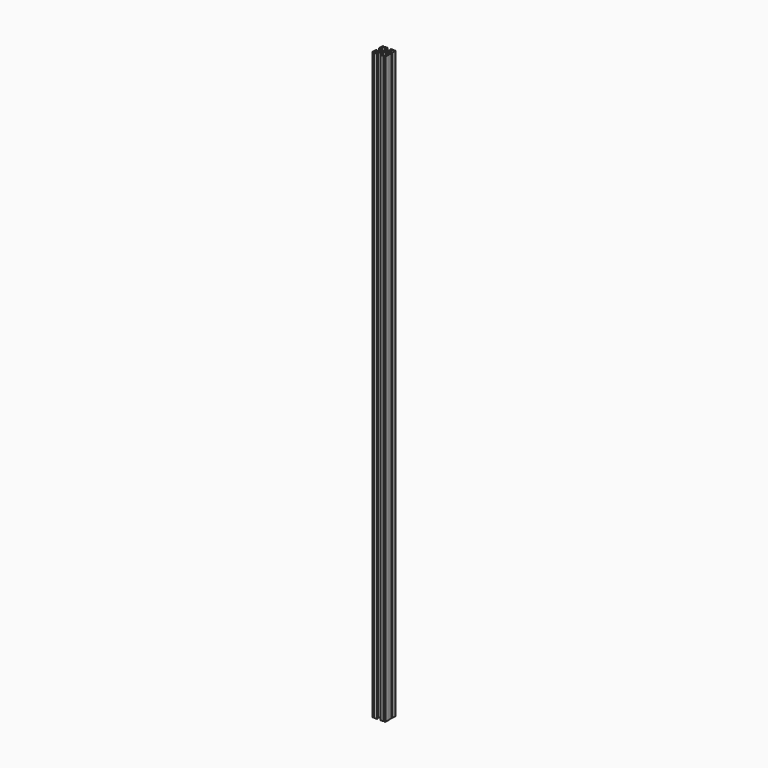
from build123d import *

# Parameters (mm, degrees)
F0_W     = 2.1
F0_H     = 10
F1_DEPTH = 1800
F2_R     = 5
F3_DEPTH = 1800


with BuildPart() as f1:
    # F0 (on Top) → F1 (new body)
    with BuildSketch(Plane.XY):
        with BuildLine():
            Line((8.4, -3.5), (8.4, 0))
            Line((8.4, 0), (8.4, 3.5))
            Line((8.4, 3.5), (14.9, 10))
            Line((14.9, 10), (16.9, 10))
            Line((16.9, 10), (16.9, 5))
            Line((16.9, 5), (17.4, 5))
            Line((17.4, 5), (19.5, 5))
            Line((19.5, 5), (20, 5))
            Line((20, 5), (20, 19))
            ThreePointArc((20, 19), (19.92388, 19.382683), (19.707107, 19.707107))
            ThreePointArc((19.707107, 19.707107), (19.382683, 19.92388), (19, 20))
            Line((19, 20), (5, 20))
            Line((5, 20), (5, 16.9))
            Line((5, 16.9), (10, 16.9))
            Line((10, 16.9), (10, 14.9))
            Line((10, 14.9), (3.5, 8.4))
            Line((3.5, 8.4), (0, 8.4))
            Line((0, 8.4), (-3.5, 8.4))
            Line((-3.5, 8.4), (-10, 14.9))
            Line((-10, 14.9), (-10, 16.9))
            Line((-10, 16.9), (-5, 16.9))
            Line((-5, 16.9), (-5, 20))
            Line((-5, 20), (-19, 20))
            ThreePointArc((-19, 20), (-19.382683, 19.92388), (-19.707107, 19.707107))
            ThreePointArc((-19.707107, 19.707107), (-19.92388, 19.382683), (-20, 19))
            Line((-20, 19), (-20, 5))
            Line((-20, 5), (-16.9, 5))
            Line((-16.9, 5), (-16.9, 10))
            Line((-16.9, 10), (-14.9, 10))
            Line((-14.9, 10), (-8.4, 3.5))
            Line((-8.4, 3.5), (-8.4, 0))
            Line((-8.4, 0), (-8.4, -3.5))
            Line((-8.4, -3.5), (-14.9, -10))
            Line((-14.9, -10), (-16.9, -10))
            Line((-16.9, -10), (-16.9, -5))
            Line((-16.9, -5), (-20, -5))
            Line((-20, -5), (-20, -19))
            ThreePointArc((-20, -19), (-19.92388, -19.382683), (-19.707107, -19.707107))
            ThreePointArc((-19.707107, -19.707107), (-19.382683, -19.92388), (-19, -20))
            Line((-19, -20), (-5, -20))
            Line((-5, -20), (-5, -16.9))
            Line((-5, -16.9), (-10, -16.9))
            Line((-10, -16.9), (-10, -14.9))
            Line((-10, -14.9), (-3.5, -8.4))
            Line((-3.5, -8.4), (0, -8.4))
            Line((0, -8.4), (3.5, -8.4))
            Line((3.5, -8.4), (10, -14.9))
            Line((10, -14.9), (10, -16.9))
            Line((10, -16.9), (5, -16.9))
            Line((5, -16.9), (5, -20))
            Line((5, -20), (19, -20))
            ThreePointArc((19, -20), (19.382683, -19.92388), (19.707107, -19.707107))
            ThreePointArc((19.707107, -19.707107), (19.92388, -19.382683), (20, -19))
            Line((20, -19), (20, -5))
            Line((20, -5), (19.5, -5))
            Line((19.5, -5), (17.4, -5))
            Line((17.4, -5), (16.9, -5))
            Line((16.9, -5), (16.9, -10))
            Line((16.9, -10), (14.9, -10))
            Line((14.9, -10), (8.4, -3.5))
        make_face()
        with Locations((18.45, 0)):
            Rectangle(F0_W, F0_H)
    extrude(amount=F1_DEPTH)

    # F2 (on Top) → F3 (cut, through all)
    with BuildSketch(Plane.XY):
        with BuildLine():
            Line((16.9, 20), (14.3, 20))
            Line((14.3, 20), (14.3, 15.3))
            ThreePointArc((14.3, 15.3), (15.6, 14), (16.9, 15.3))
            Line((16.9, 15.3), (16.9, 20))
        make_face()
        with BuildLine():
            ThreePointArc((-16.9, 15.3), (-15.6, 14), (-14.3, 15.3))
            Line((-14.3, 15.3), (-14.3, 20))
            Line((-14.3, 20), (-16.9, 20))
            Line((-16.9, 20), (-16.9, 15.3))
        make_face()
        with BuildLine():
            Line((16.9, -20), (16.9, -15.3))
            ThreePointArc((16.9, -15.3), (15.6, -14), (14.3, -15.3))
            Line((14.3, -15.3), (14.3, -20))
            Line((14.3, -20), (16.9, -20))
        make_face()
        with BuildLine():
            Line((-16.9, -20), (-14.3, -20))
            Line((-14.3, -20), (-14.3, -15.3))
            ThreePointArc((-14.3, -15.3), (-15.6, -14), (-16.9, -15.3))
            Line((-16.9, -15.3), (-16.9, -20))
        make_face()
        Circle(F2_R)
    extrude(amount=F3_DEPTH, mode=Mode.SUBTRACT)


solid = f1.part
